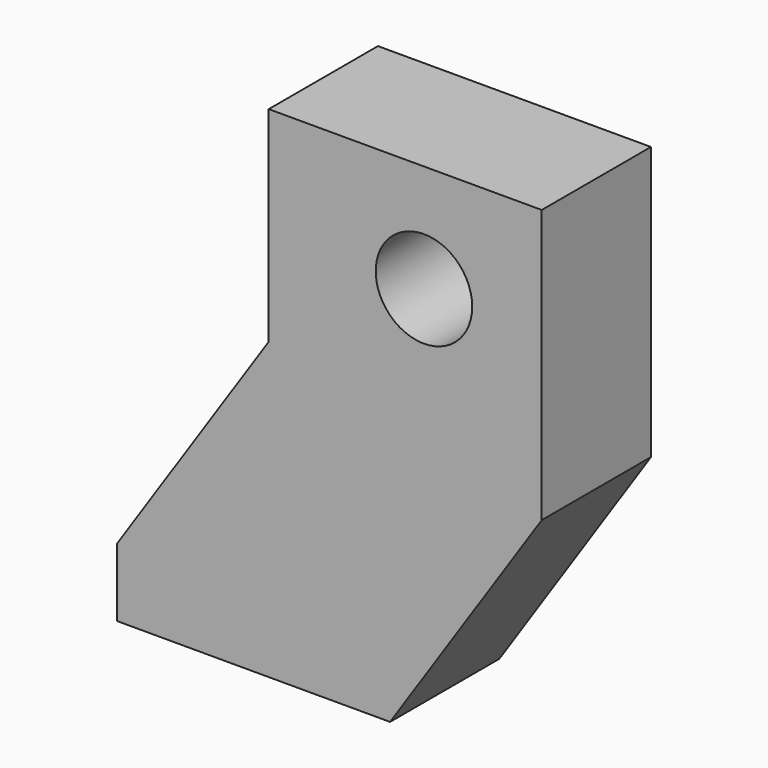
from build123d import *

# Parameters (mm, degrees)
F0_W     = 50.8
F0_H     = 38.1
F0_R     = 8.975552763
F1_DEPTH = 25.4


with BuildPart() as f1:
    # F0 (on Front) → F1 (new body)
    with BuildSketch(Plane.XZ):
        Polygon((-28.8856811149, 10.1763955508), (-57.109653774, -32.0615893364), (-48.6233480535, -32.0615893364), (-28.8856811149, -2.5236044492), align=None)
        Polygon((-48.6233480535, -32.0615893364), (-57.109653774, -32.0615893364), (-57.109653774, -44.7615893364), align=None)
        Polygon((-6.309653774, -32.0615893364), (-48.6233480535, -32.0615893364), (-57.109653774, -44.7615893364), (-6.309653774, -44.7615893364), align=None)
        Polygon((21.9143188851, 10.1763955508), (-28.8856811149, 10.1763955508), (-28.8856811149, -2.5236044492), (13.4280131646, -2.5236044492), align=None)
        with Locations((-3.4856811149, 29.2263955508)):
            Rectangle(F0_W, F0_H)
        with Locations((0, 28.2227061689)):
            Circle(F0_R, mode=Mode.SUBTRACT)
        Polygon((13.4280131646, -2.5236044492), (-6.309653774, -32.0615893364), (-6.309653774, -44.7615893364), (21.9143188851, -2.5236044492), align=None)
        Polygon((21.9143188851, -2.5236044492), (21.9143188851, 10.1763955508), (13.4280131646, -2.5236044492), align=None)
        Polygon((-28.8856811149, -2.5236044492), (-48.6233480535, -32.0615893364), (-6.309653774, -32.0615893364), (13.4280131646, -2.5236044492), align=None)
    extrude(amount=F1_DEPTH)


solid = f1.part
